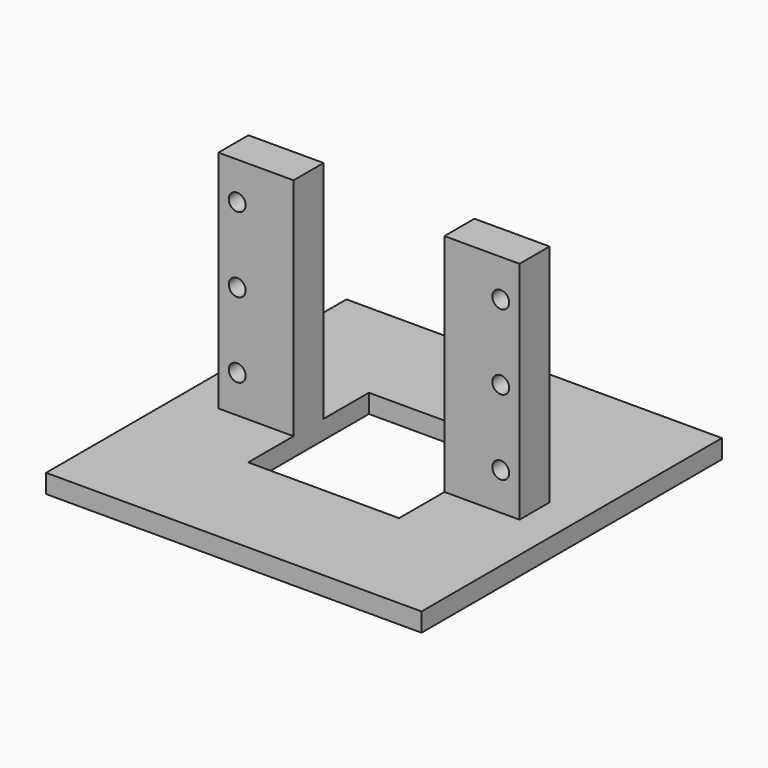
from build123d import *

# Parameters (mm, degrees)
SKETCH_W        = 100
SKETCH_H        = 100
PAD_DEPTH       = 5
SKETCH001_W     = 40.2
SKETCH001_H     = 40.2
POCKET_DEPTH    = 5
SKETCH002_W     = 20
SKETCH002_H     = 10
PAD001_DEPTH    = 60
SKETCH003_R     = 2.25
POCKET001_DEPTH = 10


with BuildPart() as part:
    # Sketch → Pad (new body)
    with BuildSketch(Plane.XY):
        Rectangle(SKETCH_W, SKETCH_H)
    extrude(amount=PAD_DEPTH)

    # Sketch001 (on DatumPlane) → Pocket (cut)
    with BuildSketch(Plane.XY.offset(5)):
        Rectangle(SKETCH001_W, SKETCH001_H)
    extrude(amount=-POCKET_DEPTH, mode=Mode.SUBTRACT)

    # Sketch002 (on DatumPlane) → Pad001 (join)
    with BuildSketch(Plane.XY.offset(5)):
        with Locations((-30.1, 0)):
            Rectangle(SKETCH002_W, SKETCH002_H)
        with Locations((30.1, 0)):
            Rectangle(SKETCH002_W, SKETCH002_H)
    extrude(amount=PAD001_DEPTH)

    # Sketch003 (on DatumPlane) → Pocket001 (cut)
    with BuildSketch(Plane.XZ.offset(5)):
        with Locations((-35.1, 15)):
            Circle(SKETCH003_R)
        with Locations((35.1, 15)):
            Circle(SKETCH003_R)
        with Locations((-35.1, 35)):
            Circle(SKETCH003_R)
        with Locations((-35.1, 55)):
            Circle(SKETCH003_R)
        with Locations((-35.1, 75)):
            Circle(SKETCH003_R)
        with Locations((35.1, 75)):
            Circle(SKETCH003_R)
        with Locations((35.1, 55)):
            Circle(SKETCH003_R)
        with Locations((35.1, 35)):
            Circle(SKETCH003_R)
    extrude(amount=-POCKET001_DEPTH, mode=Mode.SUBTRACT)


solid = part.part
